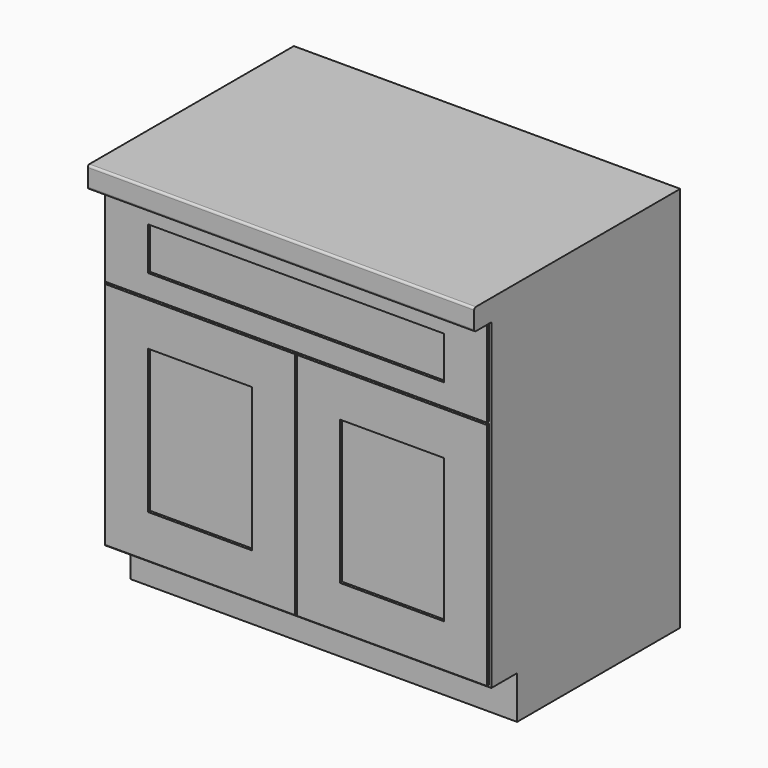
from build123d import *

# Parameters (mm, degrees)
F1_DEPTH = 914.4
F2_R     = 5.08
F3_W     = 904.24
F3_H     = 203.2
F3_W_2   = 701.04
F3_H_2   = 101.6
F3_W_3   = 449.58
F3_H_3   = 543.56
F3_W_4   = 246.38
F3_H_4   = 340.36
F4_DEPTH = 6.35


with BuildPart() as f1:
    # F0 (on Right) → F1 (new body)
    with BuildSketch(Plane.YZ):
        Polygon((-482.6, 0), (0, 0), (0, 914.4), (-609.6, 914.4), (-609.6, 863.6), (-558.8, 863.6), (-558.8, 101.6), (-482.6, 101.6), align=None)
    extrude(amount=F1_DEPTH)

    # F2
    f2_edges = [f1.edges().sort_by_distance(p)[0] for p in [
        (457.2, -609.6, 914.4),
        (457.2, -609.6, 863.6),
    ]]
    fillet(f2_edges, radius=F2_R)

    # F3 (on face) → F4 (join)
    with BuildSketch(Plane.XZ.offset(558.8)):
        with Locations((457.2, 756.92)):
            Rectangle(F3_W, F3_H)
        with Locations((457.2, 756.92)):
            Rectangle(F3_W_2, F3_H_2, mode=Mode.SUBTRACT)
        with Locations((457.2, 756.92)):
            Rectangle(F3_W, F3_H)
        with Locations((457.2, 756.92)):
            Rectangle(F3_W_2, F3_H_2, mode=Mode.SUBTRACT)
        with Locations((684.53, 378.46)):
            Rectangle(F3_W_3, F3_H_3)
        with Locations((684.53, 378.46)):
            Rectangle(F3_W_4, F3_H_4, mode=Mode.SUBTRACT)
        with Locations((229.87, 378.46)):
            Rectangle(F3_W_3, F3_H_3)
        with Locations((229.87, 378.46)):
            Rectangle(F3_W_4, F3_H_4, mode=Mode.SUBTRACT)
    extrude(amount=F4_DEPTH)


solid = f1.part
